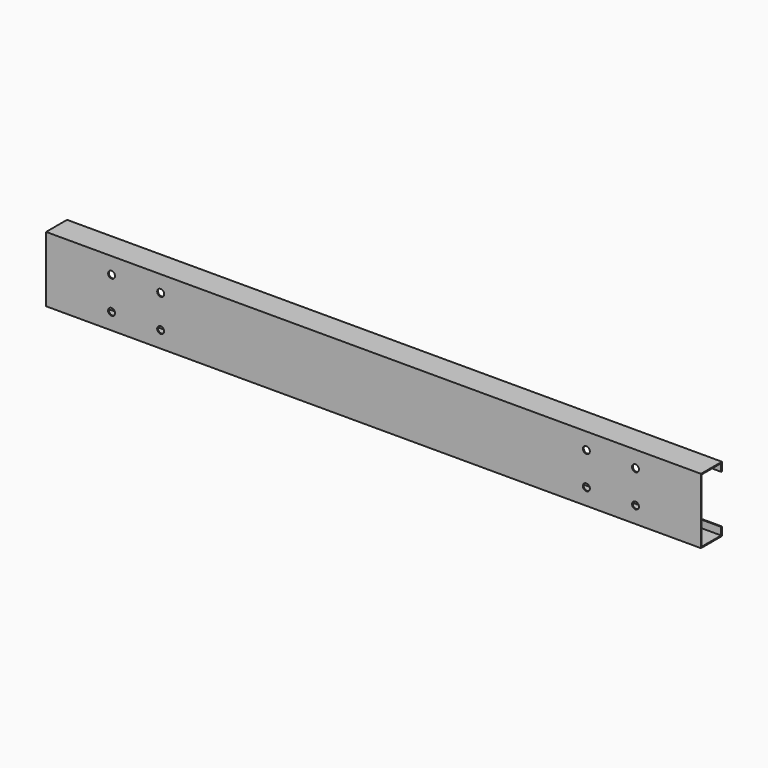
from build123d import *

# Parameters (mm, degrees)
F1_DEPTH = 2000
F2_R     = 10.626001
F3_DEPTH = 25
F4_R     = 10.626001
F5_DEPTH = 25


with BuildPart() as f1:
    # F0 (on Right) → F1 (new body)
    with BuildSketch(Plane.YZ):
        Polygon((0, 100), (0, 0), (0, -100), (80, -100), (80, -73.984891), (77, -73.984891), (77, -97), (3, -97), (3, 0), (3, 97), (77, 97), (77, 73.984891), (80, 73.984891), (80, 100), align=None)
    extrude(amount=F1_DEPTH)

    # F2 (on face) → F3 (cut)
    with BuildSketch(Plane.XZ):
        with Locations((200, 50)):
            Circle(F2_R)
        with Locations((200, -50)):
            Circle(F2_R)
        with Locations((350, 50)):
            Circle(F2_R)
        with Locations((350, -50)):
            Circle(F2_R)
    extrude(amount=-F3_DEPTH, mode=Mode.SUBTRACT)

    # F4 (on face) → F5 (cut)
    with BuildSketch(Plane.XZ):
        with Locations((1650, 50)):
            Circle(F4_R)
        with Locations((1650, -50)):
            Circle(F4_R)
        with Locations((1800, 50)):
            Circle(F4_R)
        with Locations((1800, -50)):
            Circle(F4_R)
    extrude(amount=-F5_DEPTH, mode=Mode.SUBTRACT)


solid = f1.part
